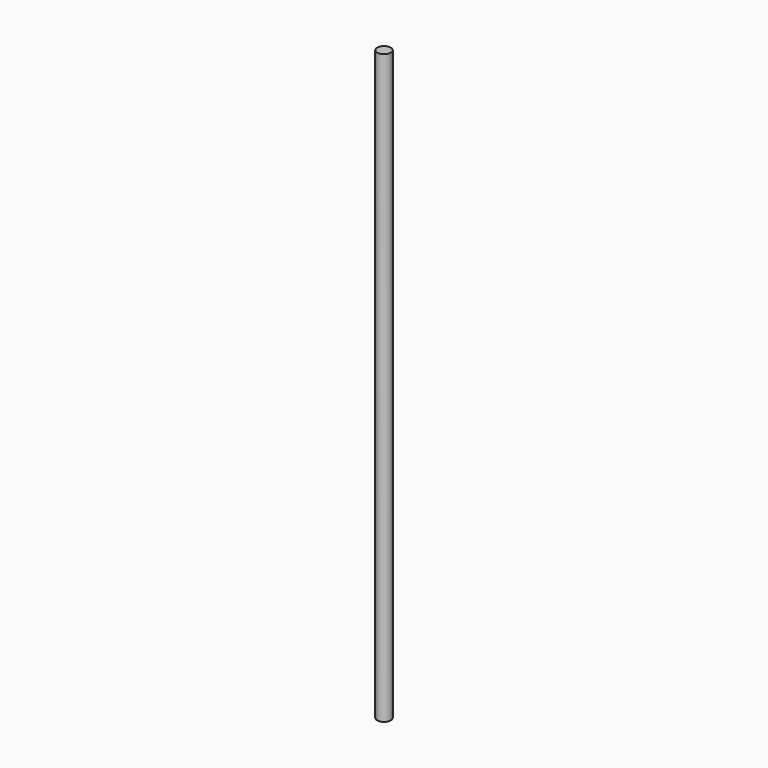
from build123d import *

# Parameters (mm, degrees)
SKETCH_R  = 6
PAD_DEPTH = 515


with BuildPart() as part:
    # Sketch → Pad (new body)
    with BuildSketch(Plane.XY):
        Circle(SKETCH_R)
    extrude(amount=PAD_DEPTH)


solid = part.part
